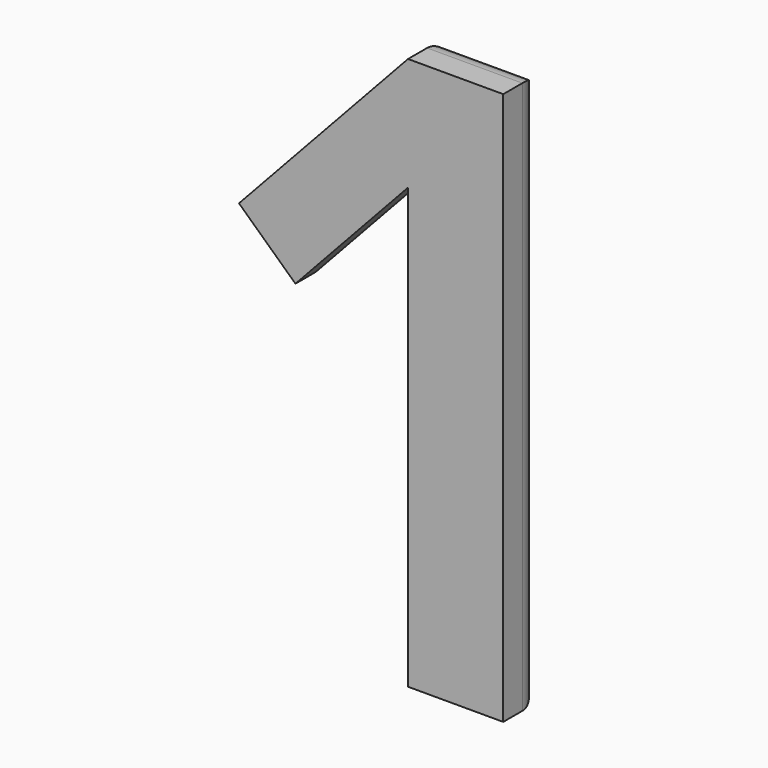
from build123d import *

# Parameters (mm, degrees)
F1_DEPTH = 2
F2_R     = 1


with BuildPart() as f1:
    # F0 (on Front) → F1 (new body)
    with BuildSketch(Plane.XZ):
        Polygon((-36.018148, 18.41734), (-36.018148, 0), (-32.026213, 0), (-32.026213, 23.163), (-36.018148, 23.163), (-43.102218, 15.533999), (-40.735889, 13.336694), align=None)
    extrude(amount=F1_DEPTH)

    # F2
    f2_edges = [f1.edges().sort_by_distance(p)[0] for p in [
        (-36.018148, 0, 9.20867),
        (-38.377019, 0, 15.877017),
        (-34.02218, 0, 0),
        (-32.026213, 0, 11.5815),
        (-34.02218, 0, 23.163),
        (-39.560183, 0, 19.348499),
        (-41.919054, 0, 14.435346),
    ]]
    fillet(f2_edges, radius=F2_R)


solid = f1.part
